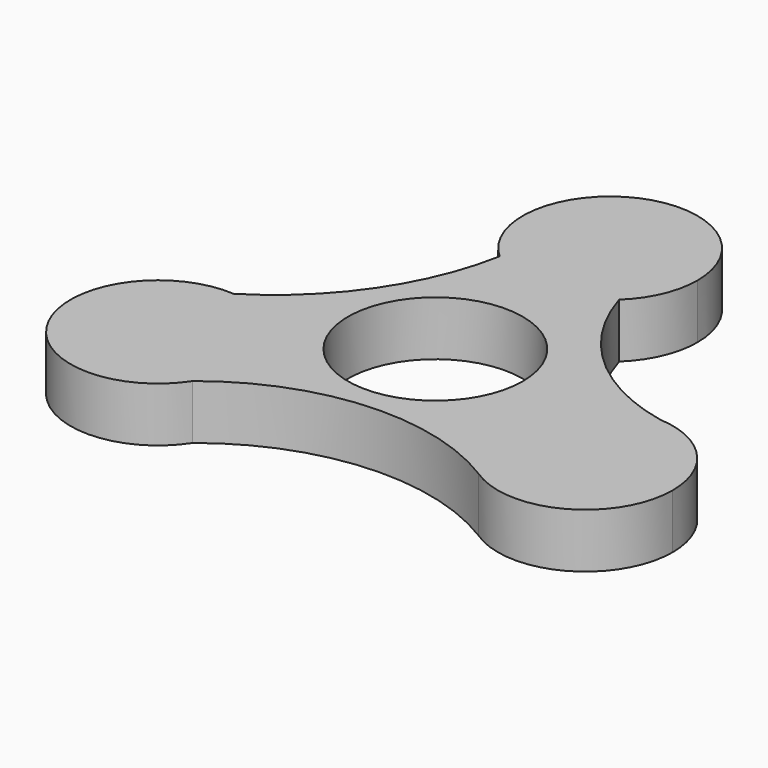
from build123d import *

# Parameters (mm, degrees)
F0_R     = 10.9982
F1_DEPTH = 6.858


with BuildPart() as f1:
    # F0 (on Top) → F1 (new body)
    with BuildSketch(Plane.XY):
        with BuildLine():
            ThreePointArc((19.891026, -18.067385), (31.183034, -18.616635), (36.993582, -8.918766))
            ThreePointArc((36.993582, -8.918766), (33.995794, -1.371991), (26.636649, 2.060723))
            ThreePointArc((26.636649, 2.060723), (15.567222, -5.42393), (19.891026, -18.067385))
        make_face()
        with BuildLine():
            ThreePointArc((19.891026, -18.067385), (15.567222, -5.42393), (26.636649, 2.060723))
            ThreePointArc((26.636649, 2.060723), (14.698911, 8.148491), (7.541138, 19.477075))
            ThreePointArc((7.541138, 19.477075), (0.107497, 16.485125), (-7.383208, 19.331196))
            ThreePointArc((-7.383208, 19.331196), (-12.720386, 6.433581), (-22.808961, -3.2129))
            ThreePointArc((-22.808961, -3.2129), (-15.514742, -6.675484), (-12.550843, -14.186171))
            ThreePointArc((-12.550843, -14.186171), (-13.011756, -17.336726), (-14.355865, -20.223214))
            ThreePointArc((-14.355865, -20.223214), (2.423408, -13.677871), (19.891026, -18.067385))
        make_face()
        Circle(F0_R, mode=Mode.SUBTRACT)
        with BuildLine():
            ThreePointArc((-7.383208, 19.331196), (0.107497, 16.485125), (7.541138, 19.477075))
            ThreePointArc((7.541138, 19.477075), (10.097013, 23.122671), (10.9982, 27.4828))
            ThreePointArc((10.9982, 27.4828), (-4.45861, 37.536715), (-7.383208, 19.331196))
        make_face()
        with BuildLine():
            ThreePointArc((-22.808961, -3.2129), (-33.39816, -19.080586), (-14.355865, -20.223214))
            ThreePointArc((-14.355865, -20.223214), (-13.011756, -17.336726), (-12.550843, -14.186171))
            ThreePointArc((-12.550843, -14.186171), (-15.514742, -6.675484), (-22.808961, -3.2129))
        make_face()
    extrude(amount=F1_DEPTH)


solid = f1.part
